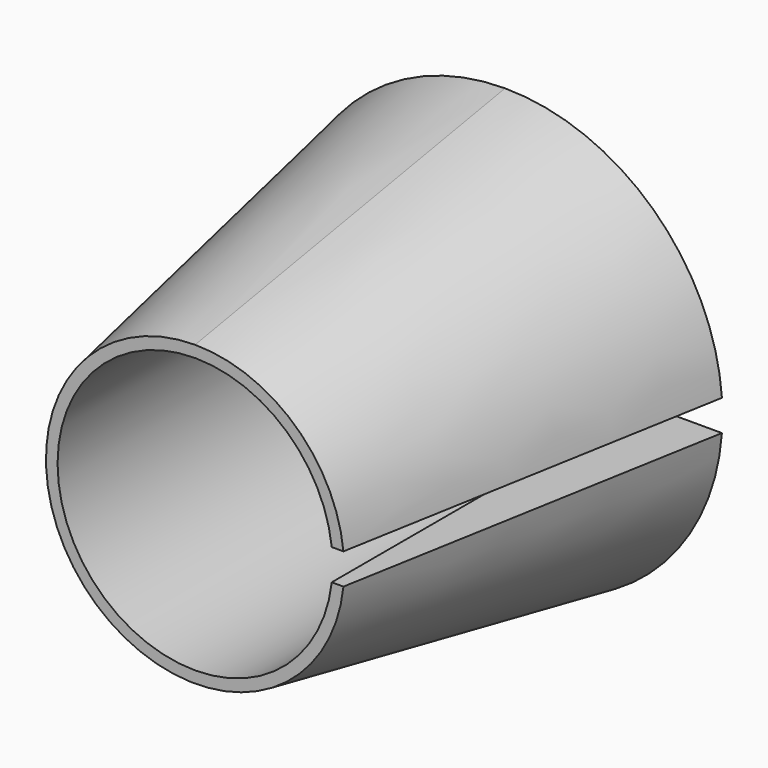
from build123d import *

# Parameters (mm, degrees)
F3_DEPTH = 0.508


with BuildPart() as f1:
    # F0 (on Right) → F1 (revolve)
    with BuildSketch(Plane.YZ):
        Polygon((12.7, 7.128853), (0, 4.8895), (0, 4.5085), (12.7, 4.5085), align=None)
    revolve(axis=Axis((0, 6.35, 0), (0, 1, 0)))

    # F2 (on Top) → F3 (cut, symmetric)
    with BuildSketch(Plane.XY):
        Polygon((15.353079, 15.146448), (1.846084, 15.401297), (1.846084, 0), (15.353079, 0), align=None)
    extrude(amount=F3_DEPTH, both=True, mode=Mode.SUBTRACT)


solid = f1.part
